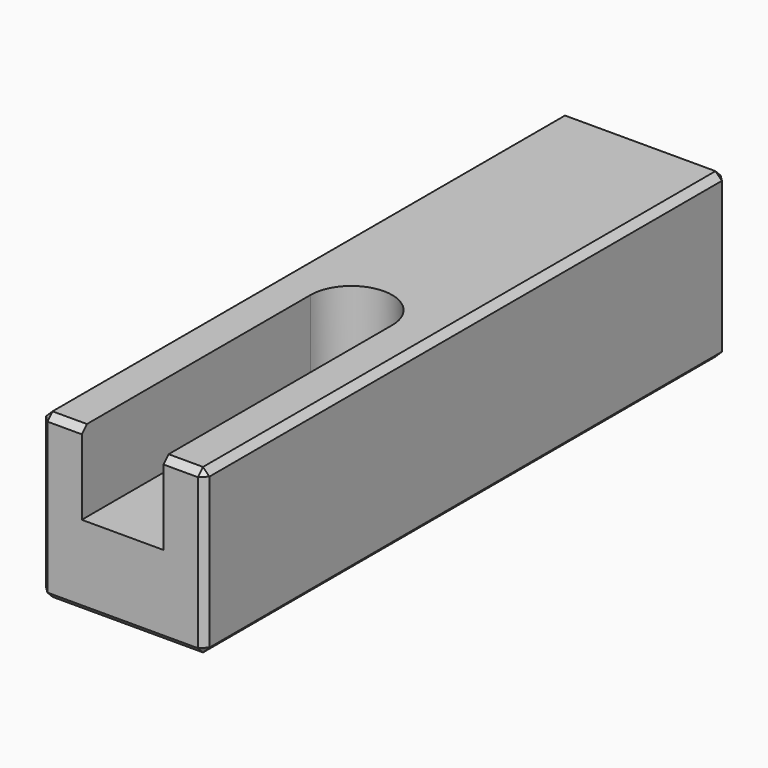
from build123d import *

# Parameters (mm, degrees)
F0_W     = 25.4
F0_H     = 25.4
F1_DEPTH = 50.8
F3_DEPTH = 12.7
F4_SIZE  = 1


with BuildPart() as f1:
    # F0 (on Front) → F1 (new body, symmetric)
    with BuildSketch(Plane.XZ):
        Rectangle(F0_W, F0_H)
    extrude(amount=F1_DEPTH, both=True)

    # F2 (on face) → F3 (cut)
    with BuildSketch(Plane.XY.offset(12.7)):
        with BuildLine():
            Line((-6.35, -6.35), (-6.35, -50.8))
            Line((-6.35, -50.8), (6.35, -50.8))
            Line((6.35, -50.8), (6.35, -6.35))
            ThreePointArc((6.35, -6.35), (0, 0), (-6.35, -6.35))
        make_face()
    extrude(amount=-F3_DEPTH, mode=Mode.SUBTRACT)

    # F4
    f4_edges = [f1.edges().sort_by_distance(p)[0] for p in [
        (12.7, 0, 12.7),
        (12.7, -50.8, 0),
        (12.7, 0, -12.7),
        (12.7, 50.8, 0),
        (0, 50.8, -12.7),
        (0, 50.8, 12.7),
        (-12.7, 50.8, 0),
        (-12.7, 0, 12.7),
        (-9.525, -50.8, 12.7),
        (9.525, -50.8, 12.7),
        (-12.7, 0, -12.7),
        (-12.7, -50.8, 0),
        (0, -50.8, -12.7),
    ]]
    chamfer(f4_edges, length=F4_SIZE)


solid = f1.part
